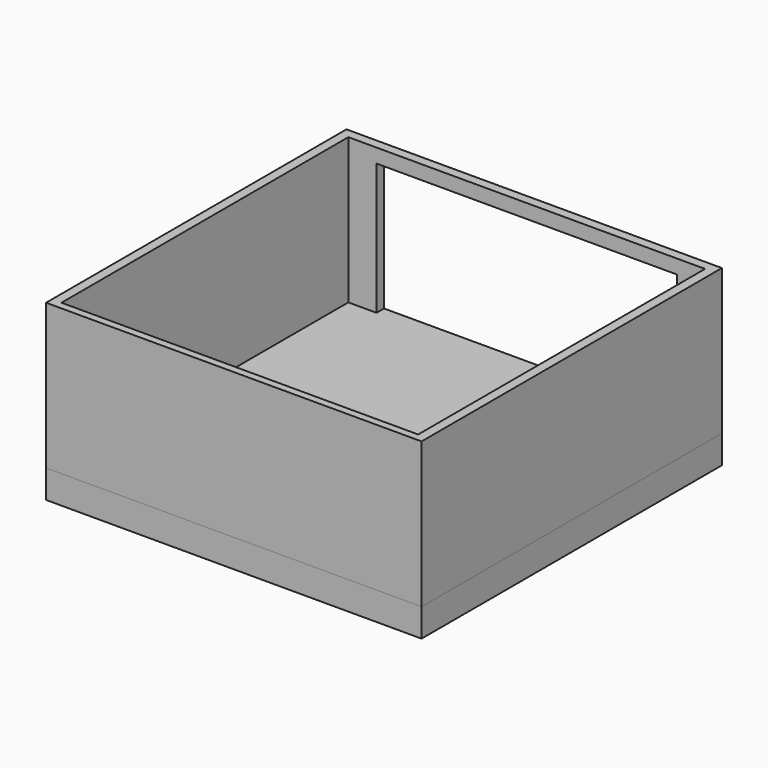
from build123d import *

# Parameters (mm, degrees)
F0_W     = 6096
F0_H     = 6096
F1_DEPTH = 457.2
F2_W     = 6096
F2_H     = 6096
F2_W_2   = 5791.2
F2_H_2   = 5821.68
F3_DEPTH = 2362.2
F4_W     = 4876.8
F4_H     = 2133.6
F5_DEPTH = 152.4


with BuildPart() as f1:
    # F0 (on Top) → F1 (new body)
    with BuildSketch(Plane.XY):
        with Locations((-4572, 18288)):
            Rectangle(F0_W, F0_H)
    extrude(amount=F1_DEPTH)


with BuildPart() as f3:
    # F2 (on face) → F3 (new body)
    with BuildSketch(Plane.XY.offset(457.2)):
        with Locations((-4572, 18288)):
            Rectangle(F2_W, F2_H)
        with Locations((-4572, 18272.76)):
            Rectangle(F2_W_2, F2_H_2, mode=Mode.SUBTRACT)
    extrude(amount=F3_DEPTH)

    # F4 (on face) → F5 (cut)
    with BuildSketch(Plane(origin=(0, 21336, 0), x_dir=(-1, 0, 0), z_dir=(0, 1, 0))):
        with Locations((4572, 1524)):
            Rectangle(F4_W, F4_H)
    extrude(amount=-F5_DEPTH, mode=Mode.SUBTRACT)


solid = Compound([f1.part, f3.part])
